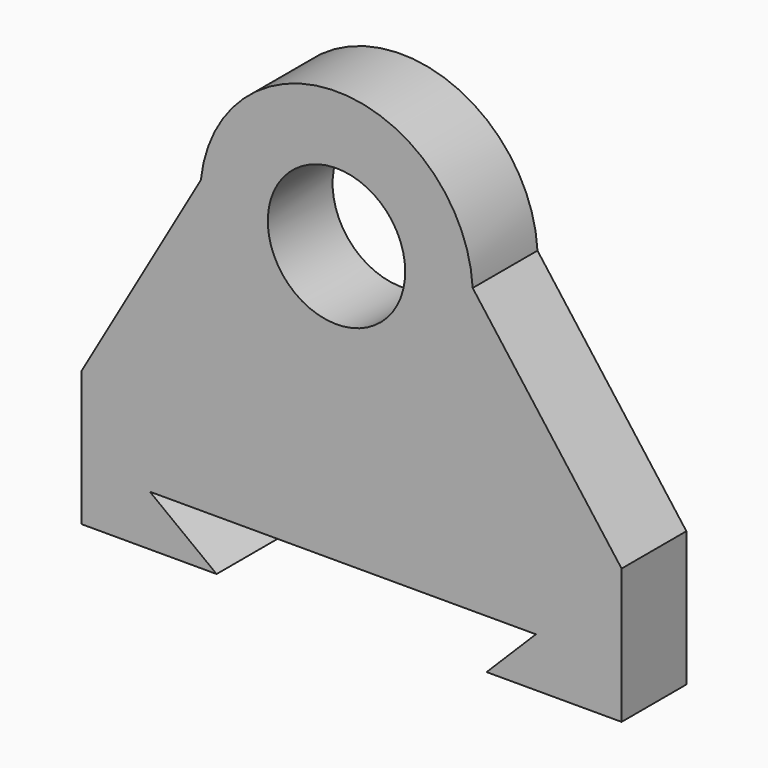
from build123d import *

# Parameters (mm, degrees)
F0_R     = 25.446567
F1_DEPTH = 30


with BuildPart() as f1:
    # F0 (on Front) → F1 (new body)
    with BuildSketch(Plane.XZ):
        Polygon((60.751898, 31.746175), (-139.247308, 31.182794), (-139.247308, -18.817206), (-89.247308, -18.817206), (-113.978493, 0), (29.021507, 0), (10.751898, -18.253825), (60.751898, -18.253825), align=None)
        with BuildLine():
            Line((-95.085682, 107.776618), (-139.247308, 31.182794))
            Line((-139.247308, 31.182794), (60.751898, 31.746175))
            Line((60.751898, 31.746175), (5.600255, 105.301918))
            ThreePointArc((5.600255, 105.301918), (5.658245, 103.905416), (5.67758, 102.507845))
            ThreePointArc((5.67758, 102.507845), (-47.479786, 52.057386), (-95.085682, 107.776618))
        make_face()
        with BuildLine():
            ThreePointArc((5.600255, 105.301918), (-43.600489, 153.011972), (-95.085682, 107.776618))
            ThreePointArc((-95.085682, 107.776618), (-47.479786, 52.057386), (5.67758, 102.507845))
            ThreePointArc((5.67758, 102.507845), (5.658245, 103.905416), (5.600255, 105.301918))
        make_face()
        with Locations((-44.8418, 102.507845)):
            Circle(F0_R, mode=Mode.SUBTRACT)
    extrude(amount=F1_DEPTH)


solid = f1.part
